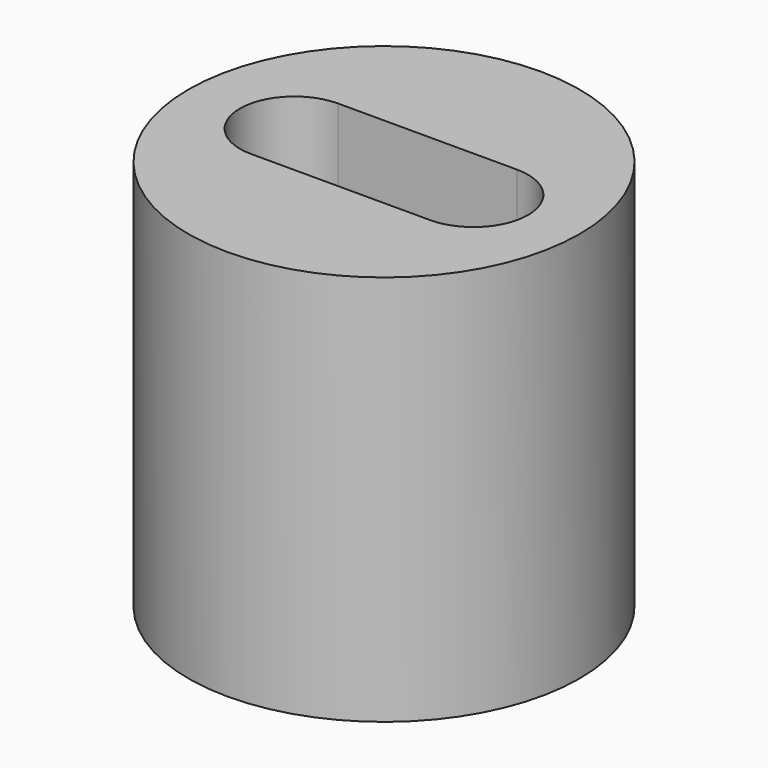
from build123d import *

# Parameters (mm, degrees)
F0_R     = 15
F1_DEPTH = 30
F2_DEPTH = 5


with BuildPart() as f1:
    # F0 (on Top) → F1 (new body)
    with BuildSketch(Plane.XY):
        Circle(F0_R)
        with BuildLine():
            Line((-6.866588, 4.182289), (6.866588, 4.182289))
            ThreePointArc((6.866588, 4.182289), (11.048877, 0), (6.866588, -4.182289))
            Line((6.866588, -4.182289), (-6.866588, -4.182289))
            ThreePointArc((-6.866588, -4.182289), (-11.048877, 0), (-6.866588, 4.182289))
        make_face(mode=Mode.SUBTRACT)
    extrude(amount=F1_DEPTH)

    # F0 (on Top) → F2 (join)
    with BuildSketch(Plane.XY):
        with BuildLine():
            ThreePointArc((6.866588, -4.182289), (11.048877, 0), (6.866588, 4.182289))
            Line((6.866588, 4.182289), (-6.866588, 4.182289))
            ThreePointArc((-6.866588, 4.182289), (-11.048877, 0), (-6.866588, -4.182289))
            Line((-6.866588, -4.182289), (6.866588, -4.182289))
        make_face()
        with BuildLine():
            ThreePointArc((6.866588, -0.319086), (6.547502, 0), (6.866588, 0.319086))
            ThreePointArc((6.866588, 0.319086), (7.092216, 0.225628), (7.185674, 0))
            ThreePointArc((7.185674, 0), (7.092216, -0.225628), (6.866588, -0.319086))
        make_face(mode=Mode.SUBTRACT)
    extrude(amount=F2_DEPTH)


solid = f1.part
